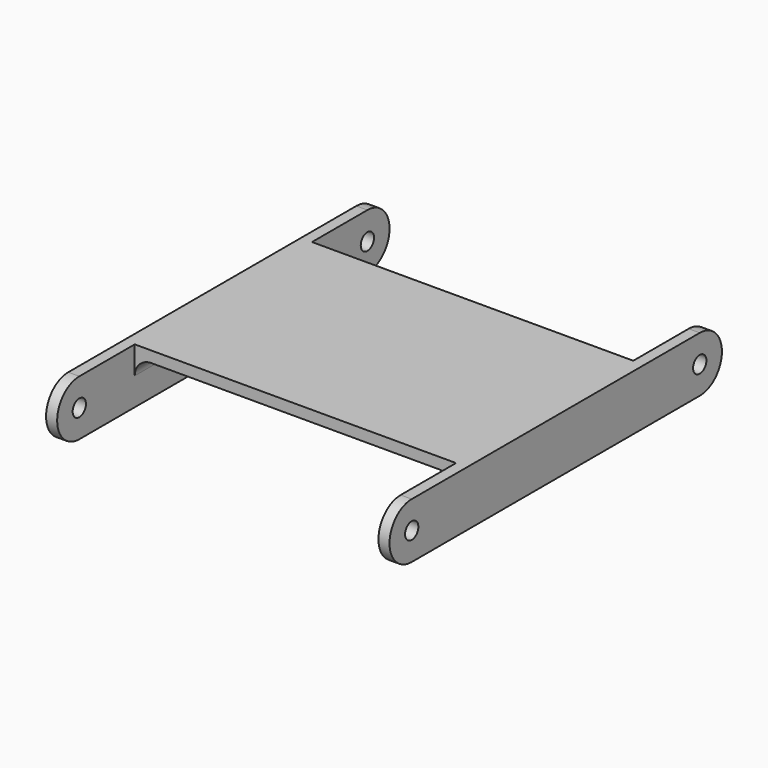
from build123d import *

# Parameters (mm, degrees)
SKETCH_W     = 58
SKETCH_H     = 40
PAD_DEPTH    = 2
SKETCH001_R  = 1.5
PAD001_DEPTH = 2
FILLET_R     = 3
SKETCH002_R  = 1.5
PAD002_DEPTH = 2
FILLET001_R  = 3


with BuildPart() as part:
    # Sketch → Pad (new body)
    with BuildSketch(Plane.XY):
        Rectangle(SKETCH_W, SKETCH_H)
    extrude(amount=PAD_DEPTH)

    # Sketch001 (on Face4 of Pad) → Pad001 (join)
    with BuildSketch(Plane(origin=(-29, 0, 0), x_dir=(0, -1, 0), z_dir=(-1, 0, 0))):
        with BuildLine():
            Line((-32.5, 2), (32.5, 2))
            ThreePointArc((32.5, -8), (37.5, -3), (32.5, 2))
            Line((-32.5, -8), (32.5, -8))
            ThreePointArc((-32.5, 2), (-37.5, -3), (-32.5, -8))
        make_face()
        with Locations((-32.5, -3)):
            Circle(SKETCH001_R, mode=Mode.SUBTRACT)
        with Locations((32.5, -3)):
            Circle(SKETCH001_R, mode=Mode.SUBTRACT)
    extrude(amount=PAD001_DEPTH)

    # Fillet
    fillet_edges = [part.edges().sort_by_distance(p)[0] for p in [
        (-29, 0, 0),
    ]]
    fillet(fillet_edges, radius=FILLET_R)

    # Sketch002 (on Face12 of Fillet) → Pad002 (join)
    with BuildSketch(Plane.YZ.offset(29)):
        with BuildLine():
            Line((-32.5, 2), (32.5, 2))
            ThreePointArc((32.5, -8), (37.5, -3), (32.5, 2))
            Line((-32.5, -8), (32.5, -8))
            ThreePointArc((-32.5, 2), (-37.5, -3), (-32.5, -8))
        make_face()
        with Locations((-32.5, -3)):
            Circle(SKETCH002_R, mode=Mode.SUBTRACT)
        with Locations((32.5, -3)):
            Circle(SKETCH002_R, mode=Mode.SUBTRACT)
    extrude(amount=PAD002_DEPTH)

    # Fillet001
    fillet001_edges = [part.edges().sort_by_distance(p)[0] for p in [
        (29, 0, 0),
    ]]
    fillet(fillet001_edges, radius=FILLET001_R)


solid = part.part
